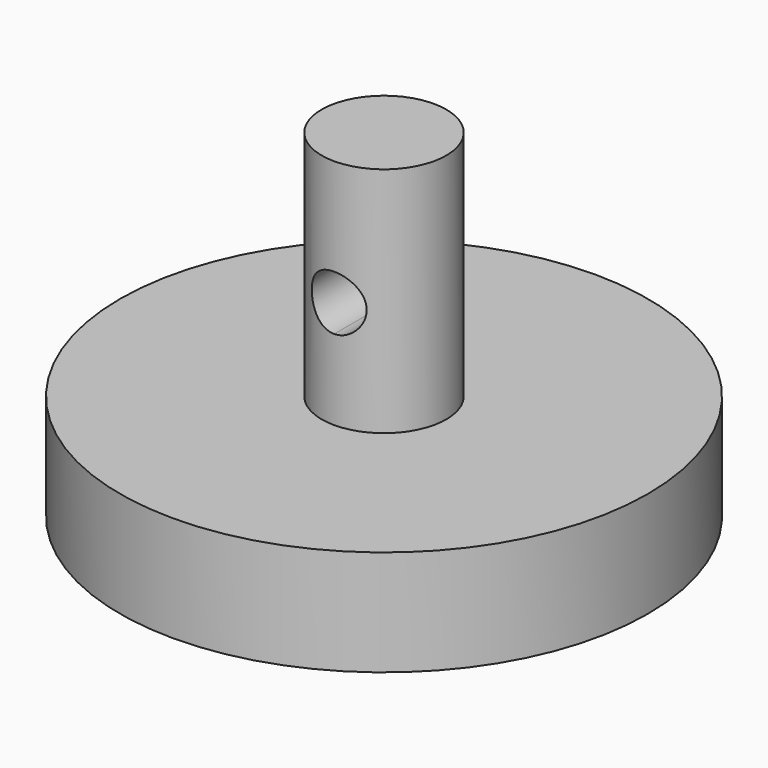
from build123d import *

# Parameters (mm, degrees)
F1_R     = 12.5
F2_DEPTH = 5
F6_DEPTH = 11
F9_DEPTH = 15.451


with BuildPart() as f2:
    # F1 (on Top) → F2 (new body)
    with BuildSketch(Plane.XY):
        Circle(F1_R)
    extrude(amount=F2_DEPTH)


with BuildPart() as f6:
    # F5 (on face) → F6 (new body)
    with BuildSketch(Plane.XY.offset(5)):
        with BuildLine():
            Line((0, 0), (-2.95, 0))
            ThreePointArc((-2.95, 0), (-2.0859650045, -2.0859650045), (0, -2.95))
            Line((0, -2.95), (0, 0))
        make_face()
        with BuildLine():
            ThreePointArc((0, -2.95), (2.0859650045, -2.0859650045), (2.95, 0))
            ThreePointArc((2.95, 0), (0, 2.95), (-2.95, 0))
            Line((-2.95, 0), (0, 0))
            Line((0, 0), (0, -2.95))
        make_face()
    extrude(amount=F6_DEPTH)

    # F8 (on offset) → F9 (cut, through all)
    with BuildSketch(Plane.XZ.offset(2.95)):
        with BuildLine():
            ThreePointArc((0, 8.8), (0.9192388155, 9.1807611845), (1.3, 10.1))
            ThreePointArc((1.3, 10.1), (-0.9192388155, 11.0192388155), (0, 8.8))
        make_face()
    extrude(amount=-F9_DEPTH, mode=Mode.SUBTRACT)


solid = Compound([f2.part, f6.part])
